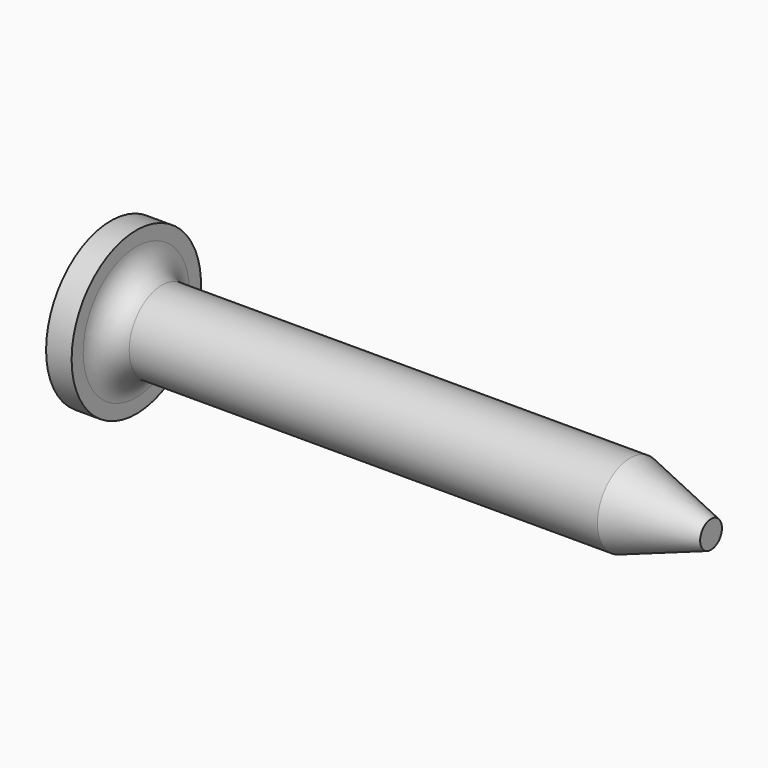
from build123d import *

# Parameters (mm, degrees)
FILLET_R = 1.5


with BuildPart() as part:
    # Sketch → Revolution (revolve)
    with BuildSketch(Plane.XY):
        Polygon((0, 0), (1.5, 0), (30.5, 0), (35.25, 0), (35.25, -0.8), (30.5, -2.4), (1.5, -2.4), (1.5, -4.75), (0, -4.75), align=None)
    revolve(axis=Axis((0, 0, 0), (1, 0, 0)))

    # Fillet
    fillet_edges = [part.edges().sort_by_distance(p)[0] for p in [
        (1.5, 2.4, 0),
    ]]
    fillet(fillet_edges, radius=FILLET_R)


solid = part.part
